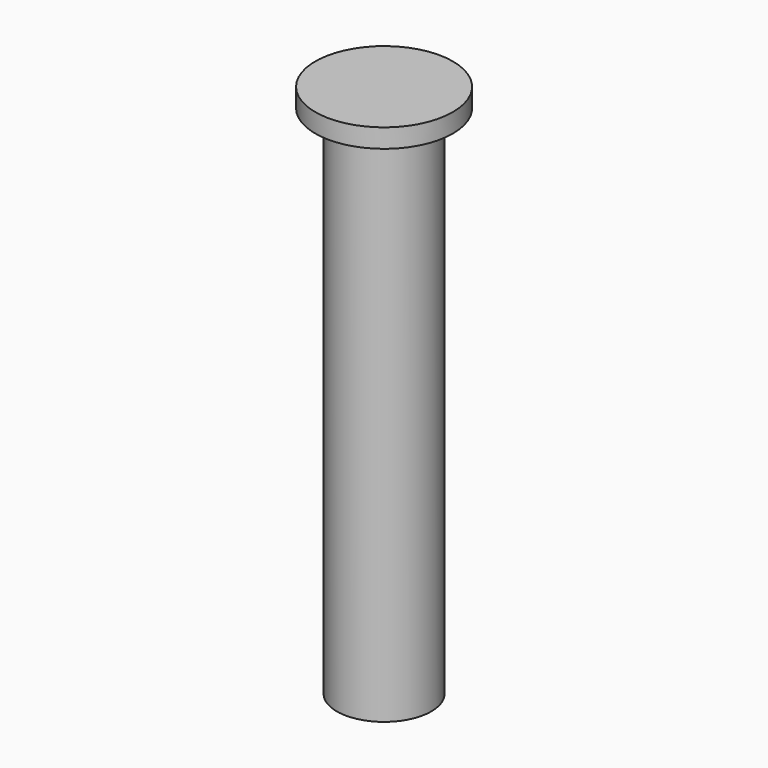
from build123d import *

# Parameters (mm, degrees)
CYLINDER110_R     = 5.5
CYLINDER110_DEPTH = 60
CYLINDER109_R     = 8
CYLINDER109_DEPTH = 2.2


with BuildPart() as syringe_pusher_body:
    # Cylinder110 → Cylinder110 (new body)
    with BuildSketch(Plane.XY):
        Circle(CYLINDER110_R)
    extrude(amount=CYLINDER110_DEPTH)


with BuildPart() as syringe_pusher:
    # Cylinder109 → Cylinder109 (new body)
    with BuildSketch(Plane.XY.offset(60)):
        Circle(CYLINDER109_R)
    extrude(amount=CYLINDER109_DEPTH)

    # Fusion012: union syringe pusher body
    add(syringe_pusher_body.part)


with BuildPart() as syringe_pusher_1:
    # Fusion012 placement: moved
    add(syringe_pusher.part.moved(Location((0, 0, 27))))


solid = syringe_pusher_1.part
